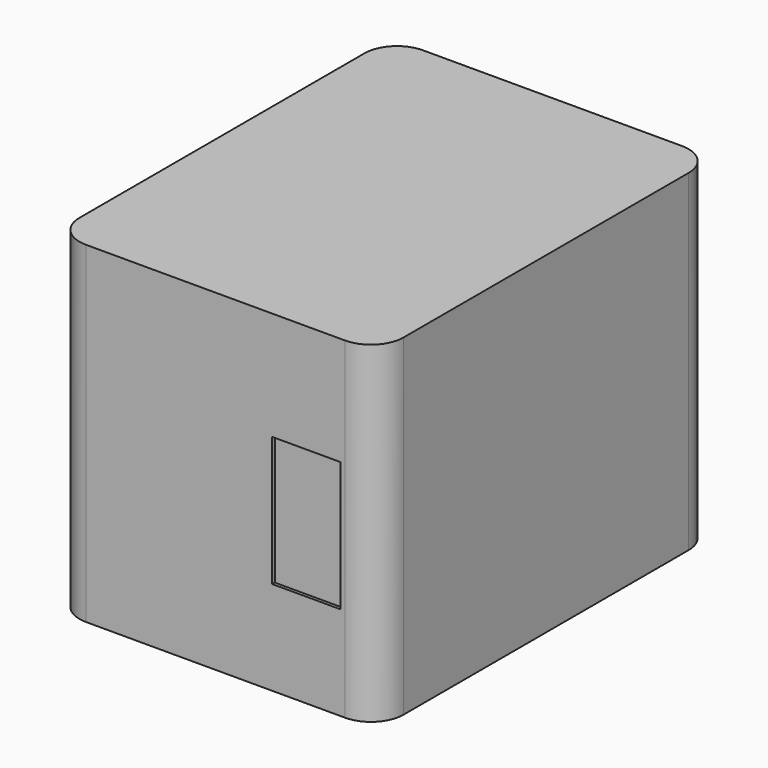
from build123d import *

# Parameters (mm, degrees)
F0_W     = 200
F0_H     = 260
F1_DEPTH = 205
F2_R     = 20
F3_W     = 42
F3_H     = 80
F4_DEPTH = 2


with BuildPart() as f1:
    # F0 (on Top) → F1 (new body)
    with BuildSketch(Plane.XY):
        with Locations((100, 130)):
            Rectangle(F0_W, F0_H)
    extrude(amount=F1_DEPTH)

    # F2
    f2_edges = [f1.edges().sort_by_distance(p)[0] for p in [
        (0, 0, 102.5),
        (0, 260, 102.5),
        (200, 260, 102.5),
        (200, 0, 102.5),
    ]]
    fillet(f2_edges, radius=F2_R)

    # F3 (on face) → F4 (cut)
    with BuildSketch(Plane.XZ):
        with Locations((156, 98)):
            Rectangle(F3_W, F3_H)
    extrude(amount=-F4_DEPTH, mode=Mode.SUBTRACT)


solid = f1.part
